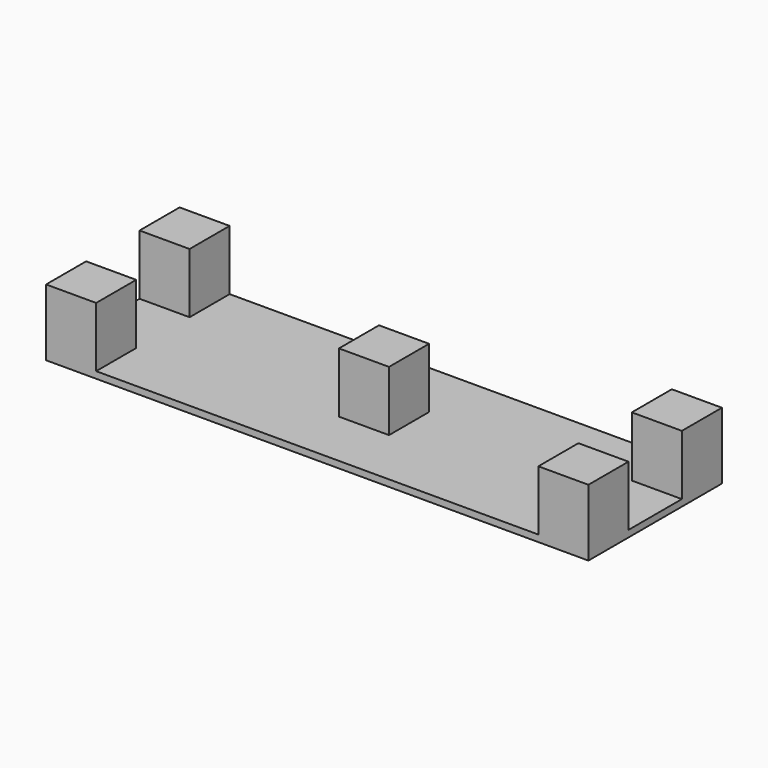
from build123d import *

# Parameters (mm, degrees)
F0_W     = 162.5
F0_H     = 50
F1_DEPTH = 2
F2_W     = 15
F2_H     = 15
F3_DEPTH = 18


with BuildPart() as f1:
    # F0 (on Top) → F1 (new body)
    with BuildSketch(Plane.XY):
        Rectangle(F0_W, F0_H)
    extrude(amount=F1_DEPTH)

    # F2 (on face) → F3 (join)
    with BuildSketch(Plane.XY.offset(2)):
        with Locations((-73.75, -17.5)):
            Rectangle(F2_W, F2_H)
        with Locations((-73.75, 17.5)):
            Rectangle(F2_W, F2_H)
        with Locations((73.75, 17.5)):
            Rectangle(F2_W, F2_H)
        with Locations((73.75, -17.5)):
            Rectangle(F2_W, F2_H)
        Rectangle(F2_W, F2_H)
    extrude(amount=F3_DEPTH)


solid = f1.part
